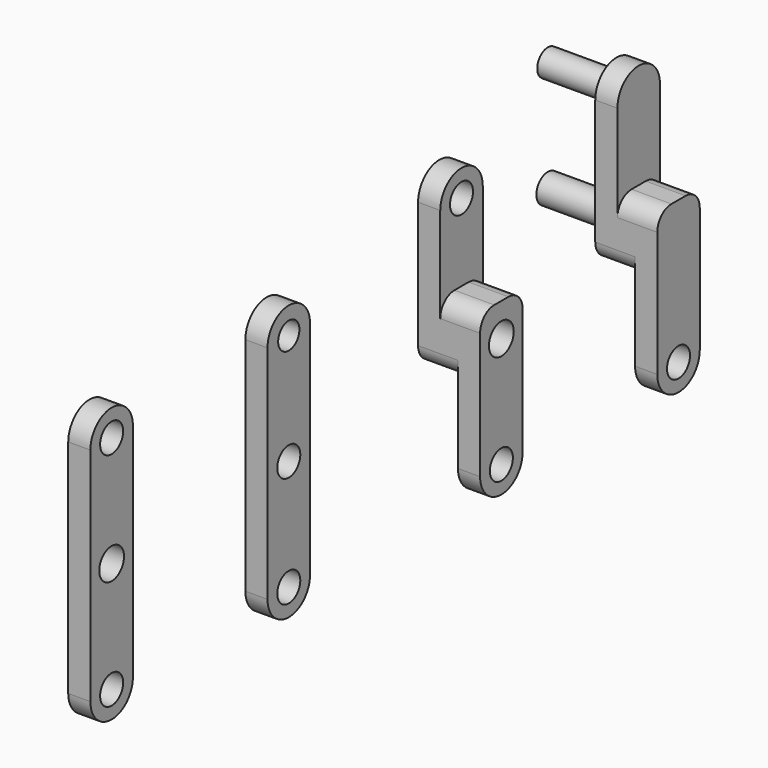
from build123d import *

# Parameters (mm, degrees)
F0_R     = 3.25
F1_DEPTH = 5
F0_R_2   = 3.5
F0_R_3   = 3
F2_DEPTH = 14
F3_START = -9
F3_DEPTH = 5
F4_DEPTH = 29.5
F5_START = -9
F5_DEPTH = 20.5
F6_R     = 4
F6_2_R   = 4


with BuildPart() as f1:
    # F0 (on Right) → F1 (new body)
    with BuildSketch(Plane.YZ):
        with BuildLine():
            Line((-6, 17.75), (-6, 0))
            ThreePointArc((-6, 0), (0, -6), (6, 0))
            Line((6, 0), (6, 17.75))
            Line((6, 17.75), (-6, 17.75))
        make_face()
        Circle(F0_R, mode=Mode.SUBTRACT)
        Polygon((-6, 25), (-6, 17.75), (6, 17.75), (6, 25), (6, 32.25), (-6, 32.25), align=None)
        with Locations((0, 25)):
            Circle(F0_R, mode=Mode.SUBTRACT)
    extrude(amount=-F1_DEPTH)

    # F0 (on Right) → F2 (join)
    with BuildSketch(Plane.YZ):
        Polygon((-6, 25), (-6, 17.75), (6, 17.75), (6, 25), (6, 32.25), (-6, 32.25), align=None)
        with Locations((0, 25)):
            Circle(F0_R, mode=Mode.SUBTRACT)
    extrude(amount=-F2_DEPTH)

    # F0 (on Right) → F3 (join)
    with BuildSketch(Plane.YZ.offset(F3_START)):
        Polygon((-6, 25), (-6, 17.75), (6, 17.75), (6, 25), (6, 32.25), (-6, 32.25), align=None)
        with Locations((0, 25)):
            Circle(F0_R, mode=Mode.SUBTRACT)
        with BuildLine():
            Line((-6, 50), (-6, 32.25))
            Line((-6, 32.25), (6, 32.25))
            Line((6, 32.25), (6, 50))
            ThreePointArc((6, 50), (0, 56), (-6, 50))
        make_face()
        with Locations((0, 50)):
            Circle(F0_R_3, mode=Mode.SUBTRACT)
    extrude(amount=-F3_DEPTH)

    # F0 (on Right) → F4 (join)
    with BuildSketch(Plane.YZ):
        with Locations((0, 25)):
            Circle(F0_R)
    extrude(amount=-F4_DEPTH)

    # F0 (on Right) → F5 (join)
    with BuildSketch(Plane.YZ.offset(F5_START)):
        with Locations((0, 50)):
            Circle(F0_R_3)
    extrude(amount=-F5_DEPTH)

    # F6
    f6_edges = [f1.edges().sort_by_distance(p)[0] for p in [
        (-4.5, 6, 32.25),
        (-4.5, -6, 32.25),
        (-9.5, -6, 17.75),
        (-9.5, 6, 17.75),
    ]]
    fillet(f6_edges, radius=F6_R)


with BuildPart() as f1b:
    # F0 (on Right) → F1, piece 2 (new body)
    with BuildSketch(Plane.YZ):
        with BuildLine():
            Line((-56, 17.5), (-56, 0))
            ThreePointArc((-56, 0), (-50, -6), (-44, 0))
            Line((-44, 0), (-44, 17.5))
            Line((-44, 17.5), (-56, 17.5))
        make_face()
        with Locations((-50, 0)):
            Circle(F0_R, mode=Mode.SUBTRACT)
        Polygon((-56, 25), (-56, 17.5), (-44, 17.5), (-44, 25), (-44, 32.5), (-56, 32.5), align=None)
        with Locations((-50, 25)):
            Circle(F0_R_2, mode=Mode.SUBTRACT)
    extrude(amount=-F1_DEPTH)

    # F0 (on Right) → F2, piece 2 (join)
    with BuildSketch(Plane.YZ):
        Polygon((-56, 25), (-56, 17.5), (-44, 17.5), (-44, 25), (-44, 32.5), (-56, 32.5), align=None)
        with Locations((-50, 25)):
            Circle(F0_R_2, mode=Mode.SUBTRACT)
    extrude(amount=-F2_DEPTH)

    # F0 (on Right) → F3, piece 2 (join)
    with BuildSketch(Plane.YZ.offset(F3_START)):
        with BuildLine():
            Line((-56, 50), (-56, 32.5))
            Line((-56, 32.5), (-44, 32.5))
            Line((-44, 32.5), (-44, 50))
            ThreePointArc((-44, 50), (-50, 56), (-56, 50))
        make_face()
        with Locations((-50, 50)):
            Circle(F0_R, mode=Mode.SUBTRACT)
    extrude(amount=-F3_DEPTH)

    # F6#2
    f6_2_edges = [f1b.edges().sort_by_distance(p)[0] for p in [
        (-4.5, -56, 32.5),
        (-4.5, -44, 32.5),
        (-9.5, -56, 17.5),
        (-9.5, -44, 17.5),
    ]]
    fillet(f6_2_edges, radius=F6_2_R)


with BuildPart() as f1c:
    # F0 (on Right) → F1, piece 3 (new body)
    with BuildSketch(Plane.YZ):
        with BuildLine():
            Line((-116, 17.75), (-116, 0))
            ThreePointArc((-116, 0), (-110, -6), (-104, 0))
            Line((-104, 0), (-104, 17.75))
            Line((-104, 17.75), (-116, 17.75))
        make_face()
        with Locations((-110, 0)):
            Circle(F0_R, mode=Mode.SUBTRACT)
        Polygon((-116, 25), (-116, 17.75), (-104, 17.75), (-104, 25), (-104, 32.25), (-116, 32.25), align=None)
        with Locations((-110, 25)):
            Circle(F0_R, mode=Mode.SUBTRACT)
        with BuildLine():
            Line((-116, 50), (-116, 32.25))
            Line((-116, 32.25), (-104, 32.25))
            Line((-104, 32.25), (-104, 50))
            ThreePointArc((-104, 50), (-110, 56), (-116, 50))
        make_face()
        with Locations((-110, 50)):
            Circle(F0_R_3, mode=Mode.SUBTRACT)
    extrude(amount=-F1_DEPTH)


with BuildPart() as f1d:
    # F0 (on Right) → F1, piece 4 (new body)
    with BuildSketch(Plane.YZ):
        with BuildLine():
            Line((-166, 17.5), (-166, 0))
            ThreePointArc((-166, 0), (-160, -6), (-154, 0))
            Line((-154, 0), (-154, 17.5))
            Line((-154, 17.5), (-166, 17.5))
        make_face()
        with Locations((-160, 0)):
            Circle(F0_R, mode=Mode.SUBTRACT)
        Polygon((-166, 25), (-166, 17.5), (-154, 17.5), (-154, 25), (-154, 32.5), (-166, 32.5), align=None)
        with Locations((-160, 25)):
            Circle(F0_R_2, mode=Mode.SUBTRACT)
        with BuildLine():
            Line((-166, 50), (-166, 32.5))
            Line((-166, 32.5), (-154, 32.5))
            Line((-154, 32.5), (-154, 50))
            ThreePointArc((-154, 50), (-160, 56), (-166, 50))
        make_face()
        with Locations((-160, 50)):
            Circle(F0_R, mode=Mode.SUBTRACT)
    extrude(amount=-F1_DEPTH)


solid = Compound([f1.part, f1b.part, f1c.part, f1d.part])
